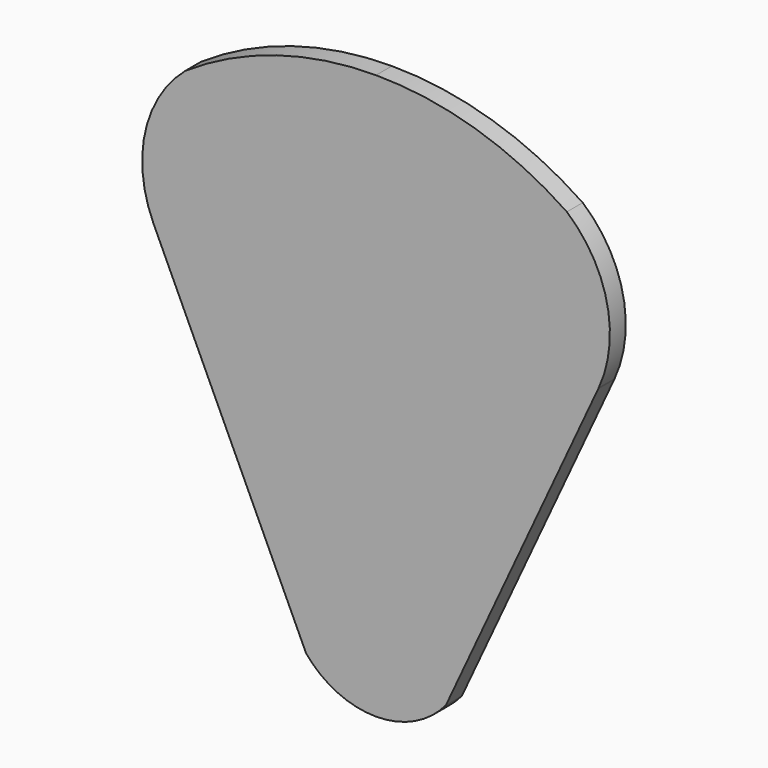
from build123d import *

# Parameters (mm, degrees)
F1_DEPTH = 1.09


with BuildPart() as f1:
    # F0 (on Front) → F1 (new body)
    with BuildSketch(Plane.XZ):
        with BuildLine():
            ThreePointArc((-3.839123, 1.807341), (-2.121635, 0.474429), (0, 0))
            Line((0, 0), (0, 31))
            ThreePointArc((0, 31), (-5.475685, 30.182919), (-10.474293, 27.802866))
            ThreePointArc((-10.474293, 27.802866), (-12.679331, 24.128983), (-12.2246, 19.86837))
            ThreePointArc((-12.2246, 19.86837), (-12.210765, 19.838378), (-12.196783, 19.808455))
            Line((-12.196783, 19.808455), (-3.839123, 1.807341))
        make_face()
        with BuildLine():
            Line((0, 31), (0, 0))
            ThreePointArc((0, 0), (2.121635, 0.474429), (3.839123, 1.807341))
            Line((3.839123, 1.807341), (12.196783, 19.808455))
            Line((12.196783, 19.808455), (12.2246, 19.86837))
            ThreePointArc((12.2246, 19.86837), (12.679331, 24.128983), (10.474293, 27.802866))
            ThreePointArc((10.474293, 27.802866), (5.475685, 30.182919), (0, 31))
        make_face()
    extrude(amount=F1_DEPTH)


solid = f1.part
